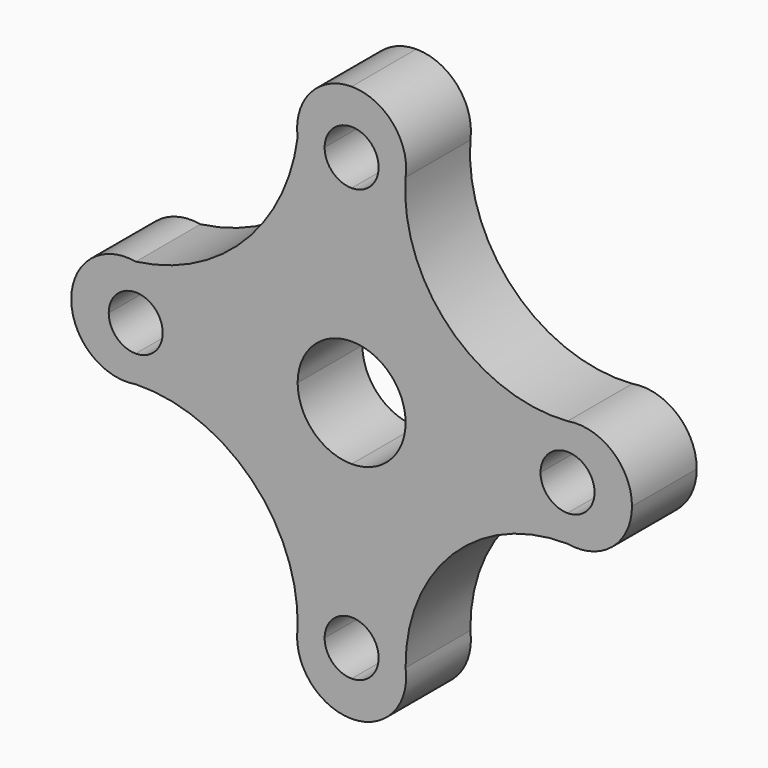
from build123d import *

# Parameters (mm, degrees)
F1_DEPTH = 19.05


with BuildPart() as f1:
    # F0 (on Front) → F1 (new body)
    with BuildSketch(Plane.XZ):
        with BuildLine():
            ThreePointArc((-12.7, 0), (-8.9802561211, 8.9802561211), (0, 12.7))
            Line((0, 12.7), (0, 44.45))
            ThreePointArc((0, 44.45), (-4.4901280605, 46.3098719395), (-6.35, 50.8))
            Line((-6.35, 50.8), (-12.7, 50.8))
            ThreePointArc((-12.7, 50.8), (-25.2969569936, 25.2969569936), (-50.8, 12.7))
            Line((-50.8, 12.7), (-50.8, 6.35))
            ThreePointArc((-50.8, 6.35), (-46.3098719395, 4.4901280605), (-44.45, 0))
            Line((-44.45, 0), (-12.7, 0))
        make_face()
        with BuildLine():
            ThreePointArc((0, 12.7), (8.9802561211, 8.9802561211), (12.7, 0))
            Line((12.7, 0), (44.45, 0))
            ThreePointArc((44.45, 0), (46.3098719395, 4.4901280605), (50.8, 6.35))
            Line((50.8, 6.35), (50.8, 12.7))
            ThreePointArc((50.8, 12.7), (23.0189104419, 23.0189104419), (12.7, 50.8))
            Line((12.7, 50.8), (6.35, 50.8))
            ThreePointArc((6.35, 50.8), (4.4901280605, 46.3098719395), (0, 44.45))
            Line((0, 44.45), (0, 12.7))
        make_face()
        with BuildLine():
            ThreePointArc((0, 57.15), (4.4901280605, 55.2901280605), (6.35, 50.8))
            Line((6.35, 50.8), (12.7, 50.8))
            ThreePointArc((12.7, 50.8), (9.7049770079, 61.0419920105), (0, 65.47843026))
            Line((0, 65.47843026), (0, 57.15))
        make_face()
        with BuildLine():
            Line((-12.7, 50.8), (-6.35, 50.8))
            ThreePointArc((-6.35, 50.8), (-4.4901280605, 55.2901280605), (0, 57.15))
            Line((0, 57.15), (0, 65.47843026))
            ThreePointArc((0, 65.47843026), (-9.7049770079, 61.0419920105), (-12.7, 50.8))
        make_face()
        with BuildLine():
            ThreePointArc((-57.15, 0), (-55.2901280605, 4.4901280605), (-50.8, 6.35))
            Line((-50.8, 6.35), (-50.8, 12.7))
            ThreePointArc((-50.8, 12.7), (-61.3475558843, 9.8904016225), (-65.9654270304, 0))
            Line((-65.9654270304, 0), (-57.15, 0))
        make_face()
        with BuildLine():
            Line((-50.8, -12.7), (-50.8, -6.35))
            ThreePointArc((-50.8, -6.35), (-55.2901280605, -4.4901280605), (-57.15, 0))
            Line((-57.15, 0), (-65.9654270304, 0))
            ThreePointArc((-65.9654270304, 0), (-61.3475558843, -9.8904016225), (-50.8, -12.7))
        make_face()
        with BuildLine():
            Line((0, -44.45), (0, -12.7))
            ThreePointArc((0, -12.7), (-8.9802561211, -8.9802561211), (-12.7, 0))
            Line((-12.7, 0), (-44.45, 0))
            ThreePointArc((-44.45, 0), (-46.3098719395, -4.4901280605), (-50.8, -6.35))
            Line((-50.8, -6.35), (-50.8, -12.7))
            ThreePointArc((-50.8, -12.7), (-23.5635696422, -23.5635696422), (-12.7, -50.8))
            Line((-12.7, -50.8), (-6.35, -50.8))
            ThreePointArc((-6.35, -50.8), (-4.4901280605, -46.3098719395), (0, -44.45))
        make_face()
        with BuildLine():
            Line((44.45, 0), (12.7, 0))
            ThreePointArc((12.7, 0), (8.9802561211, -8.9802561211), (0, -12.7))
            Line((0, -12.7), (0, -44.45))
            ThreePointArc((0, -44.45), (4.4901280605, -46.3098719395), (6.35, -50.8))
            Line((6.35, -50.8), (12.7, -50.8))
            ThreePointArc((12.7, -50.8), (23.7104631653, -23.7104631653), (50.8, -12.7))
            Line((50.8, -12.7), (50.8, -6.35))
            ThreePointArc((50.8, -6.35), (46.3098719395, -4.4901280605), (44.45, 0))
        make_face()
        with BuildLine():
            ThreePointArc((57.15, 0), (55.2901280605, -4.4901280605), (50.8, -6.35))
            Line((50.8, -6.35), (50.8, -12.7))
            ThreePointArc((50.8, -12.7), (61.3475558843, -9.8904016225), (65.9654270304, 0))
            Line((65.9654270304, 0), (57.15, 0))
        make_face()
        with BuildLine():
            Line((12.7, -50.8), (6.35, -50.8))
            ThreePointArc((6.35, -50.8), (4.4901280605, -55.2901280605), (0, -57.15))
            Line((0, -57.15), (0, -65.47843026))
            ThreePointArc((0, -65.47843026), (9.7049770079, -61.0419920105), (12.7, -50.8))
        make_face()
        with BuildLine():
            ThreePointArc((0, -57.15), (-4.4901280605, -55.2901280605), (-6.35, -50.8))
            Line((-6.35, -50.8), (-12.7, -50.8))
            ThreePointArc((-12.7, -50.8), (-9.7049770079, -61.0419920105), (0, -65.47843026))
            Line((0, -65.47843026), (0, -57.15))
        make_face()
        with BuildLine():
            Line((50.8, 12.7), (50.8, 6.35))
            ThreePointArc((50.8, 6.35), (55.2901280605, 4.4901280605), (57.15, 0))
            Line((57.15, 0), (65.9654270304, 0))
            ThreePointArc((65.9654270304, 0), (61.3475558843, 9.8904016225), (50.8, 12.7))
        make_face()
    extrude(amount=F1_DEPTH)


solid = f1.part
